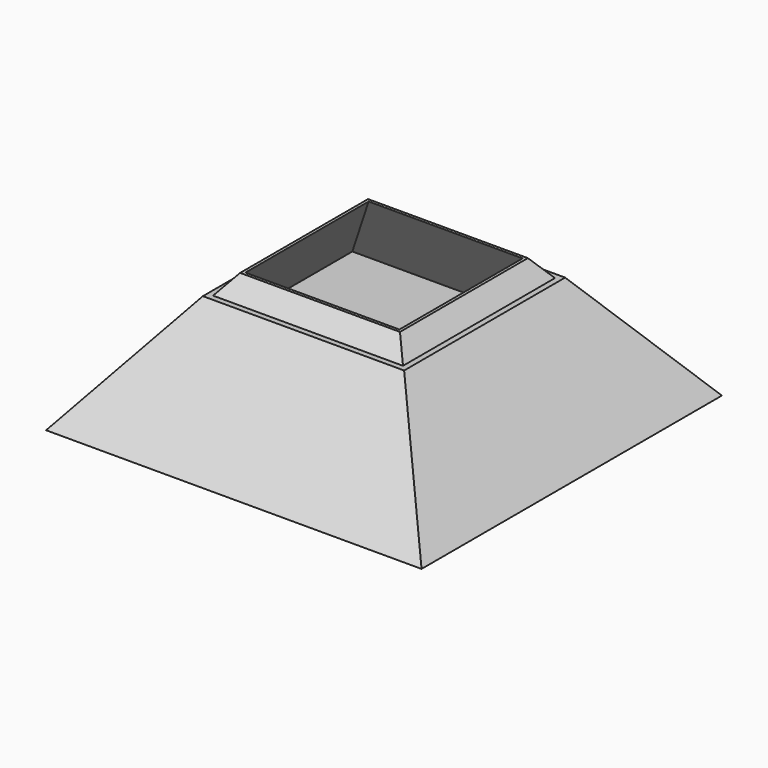
from build123d import *

# Parameters (mm, degrees)
BOX009_W     = 275
BOX009_H     = 275
BOX009_DEPTH = 59
SKETCH036_W  = 101
SKETCH036_H  = 101
SKETCH037_W  = 85
SKETCH037_H  = 85
BOX008_W     = 275
BOX008_H     = 275
BOX008_DEPTH = 52
SKETCH034_W  = 275
SKETCH034_H  = 275
SKETCH035_W  = 0.1
SKETCH035_H  = 0.1
BOX007_W     = 275
BOX007_H     = 275
BOX007_DEPTH = 47
SKETCH032_W  = 195
SKETCH032_H  = 195
SKETCH033_W  = 180
SKETCH033_H  = 180
BOX006_W     = 275
BOX006_H     = 275
BOX006_DEPTH = 52
SKETCH030_W  = 275
SKETCH030_H  = 275
SKETCH031_W  = 0.1
SKETCH031_H  = 0.1
SKETCH028_W  = 275
SKETCH028_H  = 275
SKETCH029_W  = 0.1
SKETCH029_H  = 0.1
BOX005_W     = 275
BOX005_H     = 275
BOX005_DEPTH = 57
BOX004_W     = 275
BOX004_H     = 275
BOX004_DEPTH = 55
SKETCH026_W  = 275
SKETCH026_H  = 275
SKETCH027_W  = 0.1
SKETCH027_H  = 0.1
SKETCH024_W  = 275
SKETCH024_H  = 275
SKETCH025_W  = 0.1
SKETCH025_H  = 0.1
BOX003_W     = 275
BOX003_H     = 275
BOX003_DEPTH = 70


with BuildPart() as layer0keep004:
    # Box009 → Box009 (new body)
    with BuildSketch(Plane.XY.offset(48)):
        with Locations((137.5, 137.5)):
            Rectangle(BOX009_W, BOX009_H)
    extrude(amount=BOX009_DEPTH)


with BuildPart() as obj1:
    # Sketch036 → Loft010 section 0
    with BuildSketch(Plane.XY.offset(107)):
        with Locations((137.5, 137.5)):
            Rectangle(SKETCH036_W, SKETCH036_H)
    # Sketch037 → Loft010 section 1
    with BuildSketch(Plane.XY.offset(117)):
        with Locations((137.5, 137.5)):
            Rectangle(SKETCH037_W, SKETCH037_H)
    loft()

    # Fusion018: union layer0Keep004
    add(layer0keep004.part)


with BuildPart() as layer013:
    # Box008 → Box008 (new body)
    with BuildSketch(Plane.XY.offset(5)):
        with Locations((137.5, 137.5)):
            Rectangle(BOX008_W, BOX008_H)
    extrude(amount=BOX008_DEPTH)


with BuildPart() as obj2:
    # Sketch034 → Loft009 section 0
    with BuildSketch(Plane.XY):
        with Locations((137.5, 137.5)):
            Rectangle(SKETCH034_W, SKETCH034_H)
    # Sketch035 → Loft009 section 1
    with BuildSketch(Plane.XY.offset(175.1)):
        with Locations((137.5, 137.5)):
            Rectangle(SKETCH035_W, SKETCH035_H)
    loft()


with BuildPart() as obj2_1:
    # Loft009 placement: moved
    add(obj2.part.moved(Location((0, 0, -6))))

    # Common008: intersect layer013
    add(layer013.part, mode=Mode.INTERSECT)


with BuildPart() as layer0keep002:
    # Box007 → Box007 (new body)
    with BuildSketch(Plane.XY):
        with Locations((137.5, 137.5)):
            Rectangle(BOX007_W, BOX007_H)
    extrude(amount=BOX007_DEPTH)


with BuildPart() as layer012:
    # Sketch032 → Loft008 section 0
    with BuildSketch(Plane.XY.offset(47)):
        with Locations((137.5, 137.5)):
            Rectangle(SKETCH032_W, SKETCH032_H)
    # Sketch033 → Loft008 section 1
    with BuildSketch(Plane.XY.offset(57)):
        with Locations((137.5, 137.5)):
            Rectangle(SKETCH033_W, SKETCH033_H)
    loft()

    # Fusion016: union layer0Keep002
    add(layer0keep002.part)


with BuildPart() as layer009:
    # Box006 → Box006 (new body)
    with BuildSketch(Plane.XY.offset(5)):
        with Locations((137.5, 137.5)):
            Rectangle(BOX006_W, BOX006_H)
    extrude(amount=BOX006_DEPTH)


with BuildPart() as layer0cut002:
    # Sketch030 → Loft007 section 0
    with BuildSketch(Plane.XY):
        with Locations((137.5, 137.5)):
            Rectangle(SKETCH030_W, SKETCH030_H)
    # Sketch031 → Loft007 section 1
    with BuildSketch(Plane.XY.offset(175.1)):
        with Locations((137.5, 137.5)):
            Rectangle(SKETCH031_W, SKETCH031_H)
    loft()


with BuildPart() as layer0cut002_1:
    # Loft007 placement: moved
    add(layer0cut002.part.moved(Location((0, 0, -6))))

    # Common006: intersect layer009
    add(layer009.part, mode=Mode.INTERSECT)


with BuildPart() as obj3:
    # Sketch028 → Loft006 section 0
    with BuildSketch(Plane.XY):
        with Locations((137.5, 137.5)):
            Rectangle(SKETCH028_W, SKETCH028_H)
    # Sketch029 → Loft006 section 1
    with BuildSketch(Plane.XY.offset(175.1)):
        with Locations((137.5, 137.5)):
            Rectangle(SKETCH029_W, SKETCH029_H)
    loft()


with BuildPart() as obj4:
    # Box005 → Box005 (new body)
    with BuildSketch(Plane.XY):
        with Locations((137.5, 137.5)):
            Rectangle(BOX005_W, BOX005_H)
    extrude(amount=BOX005_DEPTH)

    # Common005: intersect obj3
    add(obj3.part, mode=Mode.INTERSECT)

    # Cut002: cut layer0cut002
    add(layer0cut002_1.part, mode=Mode.SUBTRACT)

    # Common007: intersect layer012
    add(layer012.part, mode=Mode.INTERSECT)

    # Fusion017: union obj2
    add(obj2_1.part)


with BuildPart() as obj4_1:
    # Fusion017 placement: moved
    add(obj4.part.moved(Location((0, 0, 1))))


with BuildPart() as layer005:
    # Box004 → Box004 (new body)
    with BuildSketch(Plane.XY.offset(62)):
        with Locations((137.5, 137.5)):
            Rectangle(BOX004_W, BOX004_H)
    extrude(amount=BOX004_DEPTH)


with BuildPart() as layer0cut001:
    # Sketch026 → Loft005 section 0
    with BuildSketch(Plane.XY):
        with Locations((137.5, 137.5)):
            Rectangle(SKETCH026_W, SKETCH026_H)
    # Sketch027 → Loft005 section 1
    with BuildSketch(Plane.XY.offset(175.1)):
        with Locations((137.5, 137.5)):
            Rectangle(SKETCH027_W, SKETCH027_H)
    loft()


with BuildPart() as layer0cut001_1:
    # Loft005 placement: moved
    add(layer0cut001.part.moved(Location((0, 0, -6))))

    # Common004: intersect layer005
    add(layer005.part, mode=Mode.INTERSECT)


with BuildPart() as obj5:
    # Sketch024 → Loft004 section 0
    with BuildSketch(Plane.XY):
        with Locations((137.5, 137.5)):
            Rectangle(SKETCH024_W, SKETCH024_H)
    # Sketch025 → Loft004 section 1
    with BuildSketch(Plane.XY.offset(175.1)):
        with Locations((137.5, 137.5)):
            Rectangle(SKETCH025_W, SKETCH025_H)
    loft()


with BuildPart() as obj6:
    # Box003 → Box003 (new body)
    with BuildSketch(Plane.XY.offset(47)):
        with Locations((137.5, 137.5)):
            Rectangle(BOX003_W, BOX003_H)
    extrude(amount=BOX003_DEPTH)

    # Common003: intersect obj5
    add(obj5.part, mode=Mode.INTERSECT)

    # Cut001: cut layer0cut001
    add(layer0cut001_1.part, mode=Mode.SUBTRACT)

    # Cut003: cut obj4
    add(obj4_1.part, mode=Mode.SUBTRACT)

    # Common009: intersect obj1
    add(obj1.part, mode=Mode.INTERSECT)


solid = obj6.part
